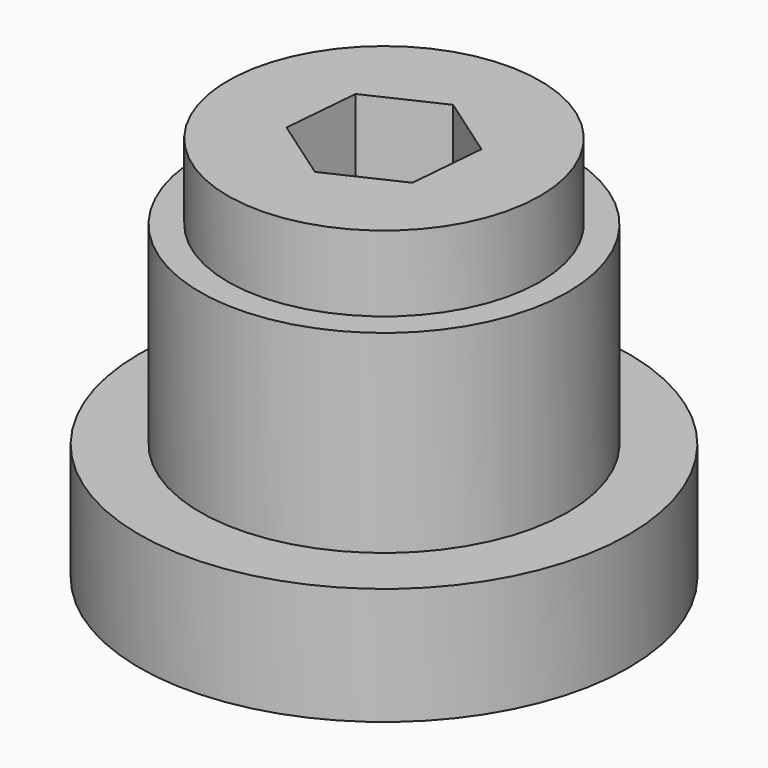
from build123d import *

# Parameters (mm, degrees)
SKETCH_R      = 25.898575
PAD_DEPTH     = 12.4
SKETCH001_R   = 19.464616
SKETCH001_R_2 = 10
PAD001_DEPTH  = 20.5
SKETCH002_R   = 16.514521
PAD002_DEPTH  = 8


with BuildPart() as part:
    # Sketch → Pad (new body)
    with BuildSketch(Plane.XY):
        Circle(SKETCH_R)
        Polygon((8.082904, 14), (-8.082904, 14), (-16.165808, 0), (-8.082904, -14), (8.082904, -14), (16.165808, 0), align=None, mode=Mode.SUBTRACT)
    extrude(amount=PAD_DEPTH)

    # Sketch001 (on Face9 of Pad) → Pad001 (join)
    with BuildSketch(Plane.XY.offset(12.4)):
        Circle(SKETCH001_R)
        Circle(SKETCH001_R_2, mode=Mode.SUBTRACT)
    extrude(amount=PAD001_DEPTH)

    # Sketch002 (on Face12 of Pad001) → Pad002 (join)
    with BuildSketch(Plane.XY.offset(32.9)):
        Circle(SKETCH002_R)
        Polygon((-6.796552, 4.737901), (-7.501419, -3.517036), (-0.704867, -8.254938), (6.796552, -4.737901), (7.501419, 3.517036), (0.704867, 8.254938), align=None, mode=Mode.SUBTRACT)
    extrude(amount=PAD002_DEPTH)


solid = part.part
